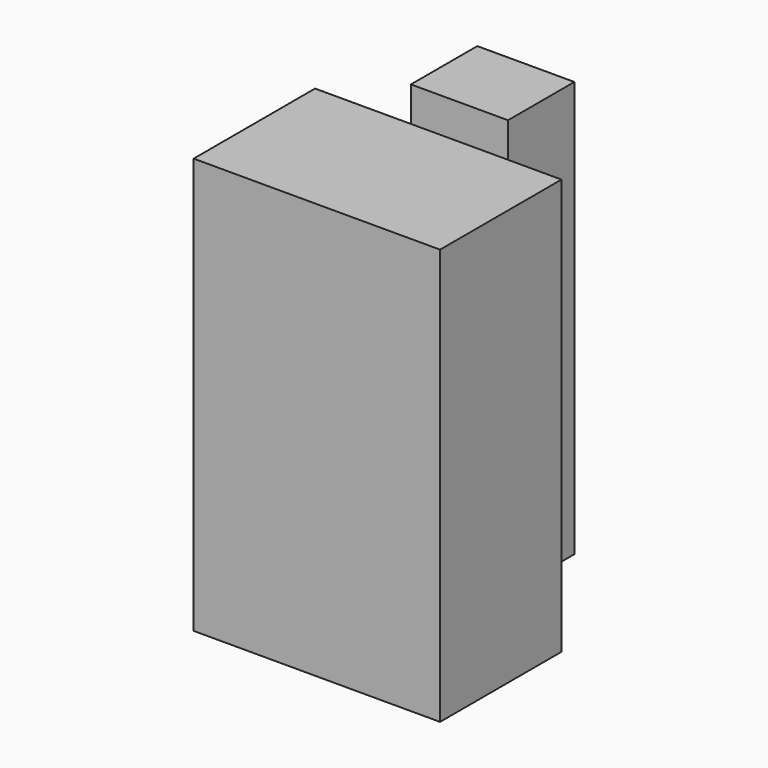
from build123d import *

# Parameters (mm, degrees)
F0_W     = 60.141906
F0_H     = 37.045032
F0_W_2   = 23.696795
F0_H_2   = 20.247288
F1_DEPTH = 101.480201


with BuildPart() as f1:
    # F0 (on Top) → F1 (new body)
    with BuildSketch(Plane.XY):
        with Locations((-6.824069, -31.270787)):
            Rectangle(F0_W, F0_H)
        with Locations((-11.848397, 10.123644)):
            Rectangle(F0_W_2, F0_H_2)
    extrude(amount=F1_DEPTH)


solid = f1.part
